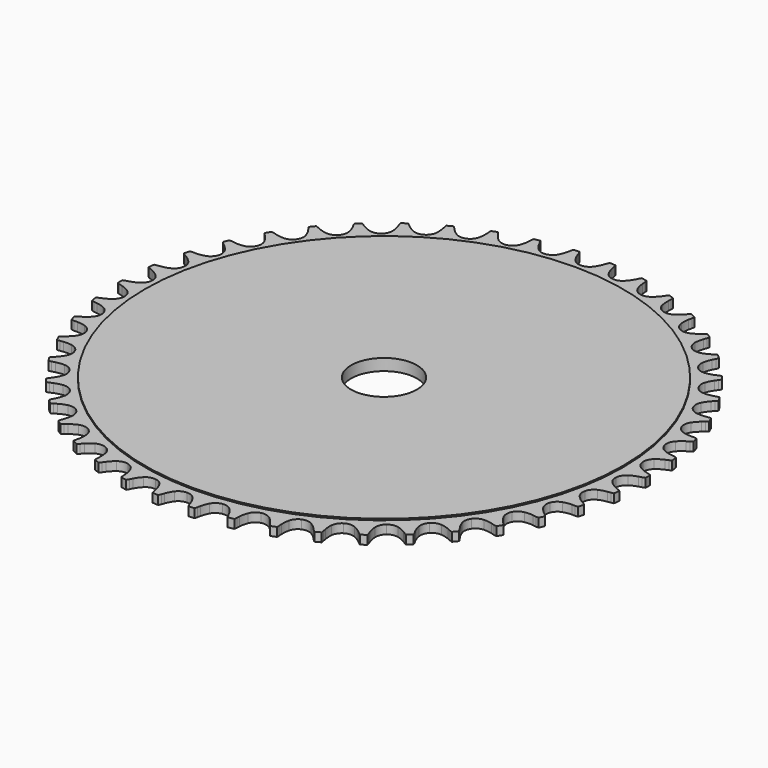
from build123d import *

# Parameters (mm, degrees)
F0_R     = 86.463759
F0_R_2   = 11.90625
F1_DEPTH = 2.1
F2_DEPTH = 1.59


with BuildPart() as f1:
    # F0 (on Top) → F1 (new body, symmetric)
    with BuildSketch(Plane.XY):
        Circle(F0_R)
        Circle(F0_R_2, mode=Mode.SUBTRACT)
    extrude(amount=F1_DEPTH, both=True)

    # F0 (on Top) → F2 (join, symmetric)
    with BuildSketch(Plane.XY):
        with BuildLine():
            ThreePointArc((0, 88.963125), (-1.813348, 89.395926), (-3.235772, 90.601023))
            ThreePointArc((-3.235772, 90.601023), (-4.05085, 91.883416), (-4.670231, 93.27095))
            Line((-4.670231, 93.27095), (-5.057308, 94.362702))
            ThreePointArc((-5.057308, 94.362702), (-5.240091, 94.821385), (-5.457606, 95.264654))
            ThreePointArc((-5.457606, 95.264654), (-6.511749, 95.198408), (-7.565095, 95.120497))
            ThreePointArc((-7.565095, 95.120497), (-7.720226, 94.651739), (-7.838849, 94.17244))
            Line((-7.838849, 94.17244), (-8.073661, 93.038149))
            ThreePointArc((-8.073661, 93.038149), (-8.498337, 91.579199), (-9.131203, 90.197764))
            ThreePointArc((-9.131203, 90.197764), (-10.376285, 88.810205), (-12.113811, 88.134518))
            ThreePointArc((-12.113811, 88.134518), (-13.969202, 88.31637), (-15.542472, 89.316556))
            ThreePointArc((-15.542472, 89.316556), (-16.524577, 90.476018), (-17.327125, 91.766289))
            Line((-17.327125, 91.766289), (-17.859257, 92.795166))
            ThreePointArc((-17.859257, 92.795166), (-18.102795, 93.224688), (-18.378643, 93.63421))
            ThreePointArc((-18.378643, 93.63421), (-19.413947, 93.425041), (-20.446872, 93.204426))
            ThreePointArc((-20.446872, 93.204426), (-20.536729, 92.718911), (-20.588983, 92.227923))
            Line((-20.588983, 92.227923), (-20.667155, 91.072223))
            ThreePointArc((-20.667155, 91.072223), (-20.889216, 89.569036), (-21.328082, 88.114292))
            ThreePointArc((-21.328082, 88.114292), (-22.372628, 86.570118), (-24.001964, 85.664131))
            ThreePointArc((-24.001964, 85.664131), (-25.864837, 85.591647), (-27.559645, 86.36829))
            ThreePointArc((-27.559645, 86.36829), (-28.690482, 87.383223), (-29.661247, 88.552197))
            Line((-29.661247, 88.552197), (-30.328522, 89.499032))
            ThreePointArc((-30.328522, 89.499032), (-30.628278, 89.891392), (-30.957319, 90.259537))
            ThreePointArc((-30.957319, 90.259537), (-31.954499, 89.911343), (-32.947764, 89.552133))
            ThreePointArc((-32.947764, 89.552133), (-32.970673, 89.058904), (-32.955583, 88.565374))
            Line((-32.955583, 88.565374), (-32.87566, 87.409794))
            ThreePointArc((-32.87566, 87.409794), (-32.890968, 85.89037), (-33.127659, 84.389417))
            ThreePointArc((-33.127659, 84.389417), (-33.95221, 82.717393), (-35.443006, 81.597984))
            ThreePointArc((-35.443006, 81.597984), (-37.278658, 81.272513), (-39.063433, 81.811147))
            ThreePointArc((-39.063433, 81.811147), (-40.321938, 82.662644), (-41.442836, 83.688544))
            Line((-41.442836, 83.688544), (-42.232824, 84.5357))
            ThreePointArc((-42.232824, 84.5357), (-42.583214, 84.883588), (-42.95932, 85.203501))
            ThreePointArc((-42.95932, 85.203501), (-43.8998, 84.722767), (-44.8349, 84.231653))
            ThreePointArc((-44.8349, 84.231653), (-44.790435, 83.739899), (-44.708283, 83.25302))
            Line((-44.708283, 83.25302), (-44.471753, 82.119086))
            ThreePointArc((-44.471753, 82.119086), (-44.280023, 80.61173), (-44.310131, 79.092527))
            ThreePointArc((-44.310131, 79.092527), (-44.899328, 77.3238), (-46.223812, 76.011821))
            ThreePointArc((-46.223812, 76.011821), (-47.998048, 75.439427), (-49.839544, 75.730017))
            ThreePointArc((-49.839544, 75.730017), (-51.202273, 76.402217), (-52.452424, 77.265932))
            Line((-52.452424, 77.265932), (-53.350408, 77.997628))
            ThreePointArc((-53.350408, 77.997628), (-53.744905, 78.294564), (-54.16107, 78.560284))
            ThreePointArc((-54.16107, 78.560284), (-55.02733, 77.955966), (-55.886848, 77.342097))
            ThreePointArc((-55.886848, 77.342097), (-55.775835, 76.860977), (-55.628153, 76.38982))
            Line((-55.628153, 76.38982), (-55.239421, 75.298655))
            ThreePointArc((-55.239421, 75.298655), (-54.844226, 73.831445), (-54.667188, 72.322293))
            ThreePointArc((-54.667188, 72.322293), (-55.010056, 70.489811), (-56.143556, 69.009701))
            ThreePointArc((-56.143556, 69.009701), (-57.823326, 68.201047), (-59.687238, 68.238179))
            ThreePointArc((-59.687238, 68.238179), (-61.128806, 68.718561), (-62.484923, 69.404002))
            Line((-62.484923, 69.404002), (-63.474175, 70.006607))
            ThreePointArc((-63.474175, 70.006607), (-63.905431, 70.247061), (-64.353901, 70.453638))
            ThreePointArc((-64.353901, 70.453638), (-65.129805, 69.736993), (-65.897729, 69.011804))
            ThreePointArc((-65.897729, 69.011804), (-65.722238, 68.550282), (-65.511775, 68.103622))
            Line((-65.511775, 68.103622), (-64.978084, 67.075552))
            ThreePointArc((-64.978084, 67.075552), (-64.386785, 65.675821), (-64.005899, 64.204832))
            ThreePointArc((-64.005899, 64.204832), (-64.096051, 62.34273), (-65.017452, 60.722061))
            ThreePointArc((-65.017452, 60.722061), (-66.571464, 59.69221), (-68.423072, 59.475194))
            ThreePointArc((-68.423072, 59.475194), (-69.916625, 59.754808), (-71.353445, 60.249207))
            Line((-71.353445, 60.249207), (-72.415538, 60.711496))
            ThreePointArc((-72.415538, 60.711496), (-72.875519, 60.890988), (-73.347941, 61.034574))
            ThreePointArc((-73.347941, 61.034574), (-74.019035, 60.218952), (-74.68106, 59.395951))
            ThreePointArc((-74.68106, 59.395951), (-74.44436, 58.962624), (-74.175037, 58.548782))
            Line((-74.175037, 58.548782), (-73.506328, 57.602959))
            ThreePointArc((-73.506328, 57.602959), (-72.729939, 56.29678), (-72.152302, 54.891356))
            ThreePointArc((-72.152302, 54.891356), (-71.988057, 53.034322), (-72.680195, 51.303284))
            ThreePointArc((-72.680195, 51.303284), (-74.079502, 50.07142), (-75.884314, 49.604298))
            ThreePointArc((-75.884314, 49.604298), (-77.40203, 49.677936), (-78.892788, 49.972083))
            Line((-78.892788, 49.972083), (-80.007937, 50.285445))
            ThreePointArc((-80.007937, 50.285445), (-80.488074, 50.400631), (-80.975648, 50.478551))
            ThreePointArc((-80.975648, 50.478551), (-81.529431, 49.579145), (-82.073224, 48.673664))
            ThreePointArc((-82.073224, 48.673664), (-81.779724, 48.276603), (-81.456558, 47.903289))
            Line((-81.456558, 47.903289), (-80.665288, 47.057332))
            ThreePointArc((-80.665288, 47.057332), (-79.718272, 45.869037), (-78.954643, 44.555357))
            ThreePointArc((-78.954643, 44.555357), (-78.539063, 42.737985), (-78.989044, 40.928824))
            ThreePointArc((-78.989044, 40.928824), (-80.207579, 39.517895), (-81.931975, 38.809369))
            ThreePointArc((-81.931975, 38.809369), (-83.445581, 38.675658), (-84.962507, 38.764074))
            Line((-84.962507, 38.764074), (-86.109939, 38.922671))
            ThreePointArc((-86.109939, 38.922671), (-86.601289, 38.971405), (-87.094932, 38.982208))
            ThreePointArc((-87.094932, 38.982208), (-87.521087, 38.015773), (-87.936519, 37.044679))
            ThreePointArc((-87.936519, 37.044679), (-87.591686, 36.691282), (-87.220697, 36.365449))
            Line((-87.220697, 36.365449), (-86.321606, 35.635115))
            ThreePointArc((-86.321606, 35.635115), (-85.221605, 34.58684), (-84.286209, 33.389377))
            ThreePointArc((-84.286209, 33.389377), (-83.627034, 31.64552), (-83.826477, 29.791937))
            ThreePointArc((-83.826477, 29.791937), (-84.841541, 28.228226), (-86.453397, 27.291494))
            ThreePointArc((-86.453397, 27.291494), (-87.934699, 26.952925), (-89.449536, 26.833964))
            Line((-89.449536, 26.833964), (-90.607876, 26.834841))
            ThreePointArc((-90.607876, 26.834841), (-91.101286, 26.816216), (-91.591801, 26.759701))
            ThreePointArc((-91.591801, 26.759701), (-91.882391, 25.744239), (-92.161724, 24.725622))
            ThreePointArc((-92.161724, 24.725622), (-91.771982, 24.422471), (-91.36008, 24.150189))
            Line((-91.36008, 24.150189), (-90.369916, 23.549084))
            ThreePointArc((-90.369916, 23.549084), (-89.137421, 22.660356), (-88.047682, 21.601416))
            ThreePointArc((-88.047682, 21.601416), (-87.157192, 19.963559), (-87.10238, 18.100083))
            ThreePointArc((-87.10238, 18.100083), (-87.895065, 16.412718), (-89.364357, 15.26523))
            ThreePointArc((-89.364357, 15.26523), (-90.78576, 14.728111), (-92.270289, 14.403987))
            Line((-92.270289, 14.403987), (-93.41796, 14.247129))
            ThreePointArc((-93.41796, 14.247129), (-93.904238, 14.161491), (-94.382489, 14.038711))
            ThreePointArc((-94.382489, 14.038711), (-94.532101, 12.993138), (-94.670129, 11.945973))
            ThreePointArc((-94.670129, 11.945973), (-94.242738, 11.698715), (-93.797598, 11.485057))
            Line((-93.797598, 11.485057), (-92.734806, 11.024378))
            ThreePointArc((-92.734806, 11.024378), (-91.392775, 10.311752), (-90.168994, 9.411061))
            ThreePointArc((-90.168994, 9.411061), (-89.063776, 7.909715), (-88.755732, 6.071058))
            ThreePointArc((-88.755732, 6.071058), (-89.31127, 4.291473), (-90.610628, 2.954603))
            ThreePointArc((-90.610628, 2.954603), (-91.945654, 2.22894), (-93.372221, 1.705691))
            Line((-93.372221, 1.705691), (-94.487844, 1.39402))
            ThreePointArc((-94.487844, 1.39402), (-94.957931, 1.242965), (-95.41501, 1.056207))
            ThreePointArc((-95.41501, 1.056207), (-95.420856, 0), (-95.41501, -1.056207))
            ThreePointArc((-95.41501, -1.056207), (-94.957931, -1.242965), (-94.487844, -1.39402))
            Line((-94.487844, -1.39402), (-93.372221, -1.705691))
            ThreePointArc((-93.372221, -1.705691), (-91.945654, -2.22894), (-90.610628, -2.954603))
            ThreePointArc((-90.610628, -2.954603), (-89.31127, -4.291473), (-88.755732, -6.071058))
            ThreePointArc((-88.755732, -6.071058), (-89.063776, -7.909715), (-90.168994, -9.411061))
            ThreePointArc((-90.168994, -9.411061), (-91.392775, -10.311752), (-92.734806, -11.024378))
            Line((-92.734806, -11.024378), (-93.797598, -11.485057))
            ThreePointArc((-93.797598, -11.485057), (-94.242738, -11.698715), (-94.670129, -11.945973))
            ThreePointArc((-94.670129, -11.945973), (-94.532101, -12.993138), (-94.382489, -14.038711))
            ThreePointArc((-94.382489, -14.038711), (-93.904238, -14.161491), (-93.41796, -14.247129))
            Line((-93.41796, -14.247129), (-92.270289, -14.403987))
            ThreePointArc((-92.270289, -14.403987), (-90.78576, -14.728111), (-89.364357, -15.26523))
            ThreePointArc((-89.364357, -15.26523), (-87.895065, -16.412718), (-87.10238, -18.100083))
            ThreePointArc((-87.10238, -18.100083), (-87.157192, -19.963559), (-88.047682, -21.601416))
            ThreePointArc((-88.047682, -21.601416), (-89.137421, -22.660356), (-90.369916, -23.549084))
            Line((-90.369916, -23.549084), (-91.36008, -24.150189))
            ThreePointArc((-91.36008, -24.150189), (-91.771982, -24.422471), (-92.161724, -24.725622))
            ThreePointArc((-92.161724, -24.725622), (-91.882391, -25.744239), (-91.591801, -26.759701))
            ThreePointArc((-91.591801, -26.759701), (-91.101286, -26.816216), (-90.607876, -26.834841))
            Line((-90.607876, -26.834841), (-89.449536, -26.833964))
            ThreePointArc((-89.449536, -26.833964), (-87.934699, -26.952925), (-86.453397, -27.291494))
            ThreePointArc((-86.453397, -27.291494), (-84.841541, -28.228226), (-83.826477, -29.791937))
            ThreePointArc((-83.826477, -29.791937), (-83.627034, -31.64552), (-84.286209, -33.389377))
            ThreePointArc((-84.286209, -33.389377), (-85.221605, -34.58684), (-86.321606, -35.635115))
            Line((-86.321606, -35.635115), (-87.220697, -36.365449))
            ThreePointArc((-87.220697, -36.365449), (-87.591686, -36.691282), (-87.936519, -37.044679))
            ThreePointArc((-87.936519, -37.044679), (-87.521087, -38.015773), (-87.094932, -38.982208))
            ThreePointArc((-87.094932, -38.982208), (-86.601289, -38.971405), (-86.109939, -38.922671))
            Line((-86.109939, -38.922671), (-84.962507, -38.764074))
            ThreePointArc((-84.962507, -38.764074), (-83.445581, -38.675658), (-81.931975, -38.809369))
            ThreePointArc((-81.931975, -38.809369), (-80.207579, -39.517895), (-78.989044, -40.928824))
            ThreePointArc((-78.989044, -40.928824), (-78.539063, -42.737985), (-78.954643, -44.555357))
            ThreePointArc((-78.954643, -44.555357), (-79.718272, -45.869037), (-80.665288, -47.057332))
            Line((-80.665288, -47.057332), (-81.456558, -47.903289))
            ThreePointArc((-81.456558, -47.903289), (-81.779724, -48.276603), (-82.073224, -48.673664))
            ThreePointArc((-82.073224, -48.673664), (-81.529431, -49.579145), (-80.975648, -50.478551))
            ThreePointArc((-80.975648, -50.478551), (-80.488074, -50.400631), (-80.007937, -50.285445))
            Line((-80.007937, -50.285445), (-78.892788, -49.972083))
            ThreePointArc((-78.892788, -49.972083), (-77.40203, -49.677936), (-75.884314, -49.604298))
            ThreePointArc((-75.884314, -49.604298), (-74.079502, -50.07142), (-72.680195, -51.303284))
            ThreePointArc((-72.680195, -51.303284), (-71.988057, -53.034322), (-72.152302, -54.891356))
            ThreePointArc((-72.152302, -54.891356), (-72.729939, -56.29678), (-73.506328, -57.602959))
            Line((-73.506328, -57.602959), (-74.175037, -58.548782))
            ThreePointArc((-74.175037, -58.548782), (-74.44436, -58.962624), (-74.68106, -59.395951))
            ThreePointArc((-74.68106, -59.395951), (-74.019035, -60.218952), (-73.347941, -61.034574))
            ThreePointArc((-73.347941, -61.034574), (-72.875519, -60.890988), (-72.415538, -60.711496))
            Line((-72.415538, -60.711496), (-71.353445, -60.249207))
            ThreePointArc((-71.353445, -60.249207), (-69.916625, -59.754808), (-68.423072, -59.475194))
            ThreePointArc((-68.423072, -59.475194), (-66.571464, -59.69221), (-65.017452, -60.722061))
            ThreePointArc((-65.017452, -60.722061), (-64.096051, -62.34273), (-64.005899, -64.204832))
            ThreePointArc((-64.005899, -64.204832), (-64.386785, -65.675821), (-64.978084, -67.075552))
            Line((-64.978084, -67.075552), (-65.511775, -68.103622))
            ThreePointArc((-65.511775, -68.103622), (-65.722238, -68.550282), (-65.897729, -69.011804))
            ThreePointArc((-65.897729, -69.011804), (-65.129805, -69.736993), (-64.353901, -70.453638))
            ThreePointArc((-64.353901, -70.453638), (-63.905431, -70.247061), (-63.474175, -70.006607))
            Line((-63.474175, -70.006607), (-62.484923, -69.404002))
            ThreePointArc((-62.484923, -69.404002), (-61.128806, -68.718561), (-59.687238, -68.238179))
            ThreePointArc((-59.687238, -68.238179), (-57.823326, -68.201047), (-56.143556, -69.009701))
            ThreePointArc((-56.143556, -69.009701), (-55.010056, -70.489811), (-54.667188, -72.322293))
            ThreePointArc((-54.667188, -72.322293), (-54.844226, -73.831445), (-55.239421, -75.298655))
            Line((-55.239421, -75.298655), (-55.628153, -76.38982))
            ThreePointArc((-55.628153, -76.38982), (-55.775835, -76.860977), (-55.886848, -77.342097))
            ThreePointArc((-55.886848, -77.342097), (-55.02733, -77.955966), (-54.16107, -78.560284))
            ThreePointArc((-54.16107, -78.560284), (-53.744905, -78.294564), (-53.350408, -77.997628))
            Line((-53.350408, -77.997628), (-52.452424, -77.265932))
            ThreePointArc((-52.452424, -77.265932), (-51.202273, -76.402217), (-49.839544, -75.730017))
            ThreePointArc((-49.839544, -75.730017), (-47.998048, -75.439427), (-46.223812, -76.011821))
            ThreePointArc((-46.223812, -76.011821), (-44.899328, -77.3238), (-44.310131, -79.092527))
            ThreePointArc((-44.310131, -79.092527), (-44.280023, -80.61173), (-44.471753, -82.119086))
            Line((-44.471753, -82.119086), (-44.708283, -83.25302))
            ThreePointArc((-44.708283, -83.25302), (-44.790435, -83.739899), (-44.8349, -84.231653))
            ThreePointArc((-44.8349, -84.231653), (-43.8998, -84.722767), (-42.95932, -85.203501))
            ThreePointArc((-42.95932, -85.203501), (-42.583214, -84.883588), (-42.232824, -84.5357))
            Line((-42.232824, -84.5357), (-41.442836, -83.688544))
            ThreePointArc((-41.442836, -83.688544), (-40.321938, -82.662644), (-39.063433, -81.811147))
            ThreePointArc((-39.063433, -81.811147), (-37.278658, -81.272513), (-35.443006, -81.597984))
            ThreePointArc((-35.443006, -81.597984), (-33.95221, -82.717393), (-33.127659, -84.389417))
            ThreePointArc((-33.127659, -84.389417), (-32.890968, -85.89037), (-32.87566, -87.409794))
            Line((-32.87566, -87.409794), (-32.955583, -88.565374))
            ThreePointArc((-32.955583, -88.565374), (-32.970673, -89.058904), (-32.947764, -89.552133))
            ThreePointArc((-32.947764, -89.552133), (-31.954499, -89.911343), (-30.957319, -90.259537))
            ThreePointArc((-30.957319, -90.259537), (-30.628278, -89.891392), (-30.328522, -89.499032))
            Line((-30.328522, -89.499032), (-29.661247, -88.552197))
            ThreePointArc((-29.661247, -88.552197), (-28.690482, -87.383223), (-27.559645, -86.36829))
            ThreePointArc((-27.559645, -86.36829), (-25.864837, -85.591647), (-24.001964, -85.664131))
            ThreePointArc((-24.001964, -85.664131), (-22.372628, -86.570118), (-21.328082, -88.114292))
            ThreePointArc((-21.328082, -88.114292), (-20.889216, -89.569036), (-20.667155, -91.072223))
            Line((-20.667155, -91.072223), (-20.588983, -92.227923))
            ThreePointArc((-20.588983, -92.227923), (-20.536729, -92.718911), (-20.446872, -93.204426))
            ThreePointArc((-20.446872, -93.204426), (-19.413947, -93.425041), (-18.378643, -93.63421))
            ThreePointArc((-18.378643, -93.63421), (-18.102795, -93.224688), (-17.859257, -92.795166))
            Line((-17.859257, -92.795166), (-17.327125, -91.766289))
            ThreePointArc((-17.327125, -91.766289), (-16.524577, -90.476018), (-15.542472, -89.316556))
            ThreePointArc((-15.542472, -89.316556), (-13.969202, -88.31637), (-12.113811, -88.134518))
            ThreePointArc((-12.113811, -88.134518), (-10.376285, -88.810205), (-9.131203, -90.197764))
            ThreePointArc((-9.131203, -90.197764), (-8.498337, -91.579199), (-8.073661, -93.038149))
            Line((-8.073661, -93.038149), (-7.838849, -94.17244))
            ThreePointArc((-7.838849, -94.17244), (-7.720226, -94.651739), (-7.565095, -95.120497))
            ThreePointArc((-7.565095, -95.120497), (-6.511749, -95.198408), (-5.457606, -95.264654))
            ThreePointArc((-5.457606, -95.264654), (-5.240091, -94.821385), (-5.057308, -94.362702))
            Line((-5.057308, -94.362702), (-4.670231, -93.27095))
            ThreePointArc((-4.670231, -93.27095), (-4.05085, -91.883416), (-3.235772, -90.601023))
            ThreePointArc((-3.235772, -90.601023), (-1.813348, -89.395926), (0, -88.963125))
            ThreePointArc((0, -88.963125), (1.813348, -89.395926), (3.235772, -90.601023))
            ThreePointArc((3.235772, -90.601023), (4.05085, -91.883416), (4.670231, -93.27095))
            Line((4.670231, -93.27095), (5.057308, -94.362702))
            ThreePointArc((5.057308, -94.362702), (5.240091, -94.821385), (5.457606, -95.264654))
            ThreePointArc((5.457606, -95.264654), (6.511749, -95.198408), (7.565095, -95.120497))
            ThreePointArc((7.565095, -95.120497), (7.720226, -94.651739), (7.838849, -94.17244))
            Line((7.838849, -94.17244), (8.073661, -93.038149))
            ThreePointArc((8.073661, -93.038149), (8.498337, -91.579199), (9.131203, -90.197764))
            ThreePointArc((9.131203, -90.197764), (10.376285, -88.810205), (12.113811, -88.134518))
            ThreePointArc((12.113811, -88.134518), (13.969202, -88.31637), (15.542472, -89.316556))
            ThreePointArc((15.542472, -89.316556), (16.524577, -90.476018), (17.327125, -91.766289))
            Line((17.327125, -91.766289), (17.859257, -92.795166))
            ThreePointArc((17.859257, -92.795166), (18.102795, -93.224688), (18.378643, -93.63421))
            ThreePointArc((18.378643, -93.63421), (19.413947, -93.425041), (20.446872, -93.204426))
            ThreePointArc((20.446872, -93.204426), (20.536729, -92.718911), (20.588983, -92.227923))
            Line((20.588983, -92.227923), (20.667155, -91.072223))
            ThreePointArc((20.667155, -91.072223), (20.889216, -89.569036), (21.328082, -88.114292))
            ThreePointArc((21.328082, -88.114292), (22.372628, -86.570118), (24.001964, -85.664131))
            ThreePointArc((24.001964, -85.664131), (25.864837, -85.591647), (27.559645, -86.36829))
            ThreePointArc((27.559645, -86.36829), (28.690482, -87.383223), (29.661247, -88.552197))
            Line((29.661247, -88.552197), (30.328522, -89.499032))
            ThreePointArc((30.328522, -89.499032), (30.628278, -89.891392), (30.957319, -90.259537))
            ThreePointArc((30.957319, -90.259537), (31.954499, -89.911343), (32.947764, -89.552133))
            ThreePointArc((32.947764, -89.552133), (32.970673, -89.058904), (32.955583, -88.565374))
            Line((32.955583, -88.565374), (32.87566, -87.409794))
            ThreePointArc((32.87566, -87.409794), (32.890968, -85.89037), (33.127659, -84.389417))
            ThreePointArc((33.127659, -84.389417), (33.95221, -82.717393), (35.443006, -81.597984))
            ThreePointArc((35.443006, -81.597984), (37.278658, -81.272513), (39.063433, -81.811147))
            ThreePointArc((39.063433, -81.811147), (40.321938, -82.662644), (41.442836, -83.688544))
            Line((41.442836, -83.688544), (42.232824, -84.5357))
            ThreePointArc((42.232824, -84.5357), (42.583214, -84.883588), (42.95932, -85.203501))
            ThreePointArc((42.95932, -85.203501), (43.8998, -84.722767), (44.8349, -84.231653))
            ThreePointArc((44.8349, -84.231653), (44.790435, -83.739899), (44.708283, -83.25302))
            Line((44.708283, -83.25302), (44.471753, -82.119086))
            ThreePointArc((44.471753, -82.119086), (44.280023, -80.61173), (44.310131, -79.092527))
            ThreePointArc((44.310131, -79.092527), (44.899328, -77.3238), (46.223812, -76.011821))
            ThreePointArc((46.223812, -76.011821), (47.998048, -75.439427), (49.839544, -75.730017))
            ThreePointArc((49.839544, -75.730017), (51.202273, -76.402217), (52.452424, -77.265932))
            Line((52.452424, -77.265932), (53.350408, -77.997628))
            ThreePointArc((53.350408, -77.997628), (53.744905, -78.294564), (54.16107, -78.560284))
            ThreePointArc((54.16107, -78.560284), (55.02733, -77.955966), (55.886848, -77.342097))
            ThreePointArc((55.886848, -77.342097), (55.775835, -76.860977), (55.628153, -76.38982))
            Line((55.628153, -76.38982), (55.239421, -75.298655))
            ThreePointArc((55.239421, -75.298655), (54.844226, -73.831445), (54.667188, -72.322293))
            ThreePointArc((54.667188, -72.322293), (55.010056, -70.489811), (56.143556, -69.009701))
            ThreePointArc((56.143556, -69.009701), (57.823326, -68.201047), (59.687238, -68.238179))
            ThreePointArc((59.687238, -68.238179), (61.128806, -68.718561), (62.484923, -69.404002))
            Line((62.484923, -69.404002), (63.474175, -70.006607))
            ThreePointArc((63.474175, -70.006607), (63.905431, -70.247061), (64.353901, -70.453638))
            ThreePointArc((64.353901, -70.453638), (65.129805, -69.736993), (65.897729, -69.011804))
            ThreePointArc((65.897729, -69.011804), (65.722238, -68.550282), (65.511775, -68.103622))
            Line((65.511775, -68.103622), (64.978084, -67.075552))
            ThreePointArc((64.978084, -67.075552), (64.386785, -65.675821), (64.005899, -64.204832))
            ThreePointArc((64.005899, -64.204832), (64.096051, -62.34273), (65.017452, -60.722061))
            ThreePointArc((65.017452, -60.722061), (66.571464, -59.69221), (68.423072, -59.475194))
            ThreePointArc((68.423072, -59.475194), (69.916625, -59.754808), (71.353445, -60.249207))
            Line((71.353445, -60.249207), (72.415538, -60.711496))
            ThreePointArc((72.415538, -60.711496), (72.875519, -60.890988), (73.347941, -61.034574))
            ThreePointArc((73.347941, -61.034574), (74.019035, -60.218952), (74.68106, -59.395951))
            ThreePointArc((74.68106, -59.395951), (74.44436, -58.962624), (74.175037, -58.548782))
            Line((74.175037, -58.548782), (73.506328, -57.602959))
            ThreePointArc((73.506328, -57.602959), (72.729939, -56.29678), (72.152302, -54.891356))
            ThreePointArc((72.152302, -54.891356), (71.988057, -53.034322), (72.680195, -51.303284))
            ThreePointArc((72.680195, -51.303284), (74.079502, -50.07142), (75.884314, -49.604298))
            ThreePointArc((75.884314, -49.604298), (77.40203, -49.677936), (78.892788, -49.972083))
            Line((78.892788, -49.972083), (80.007937, -50.285445))
            ThreePointArc((80.007937, -50.285445), (80.488074, -50.400631), (80.975648, -50.478551))
            ThreePointArc((80.975648, -50.478551), (81.529431, -49.579145), (82.073224, -48.673664))
            ThreePointArc((82.073224, -48.673664), (81.779724, -48.276603), (81.456558, -47.903289))
            Line((81.456558, -47.903289), (80.665288, -47.057332))
            ThreePointArc((80.665288, -47.057332), (79.718272, -45.869037), (78.954643, -44.555357))
            ThreePointArc((78.954643, -44.555357), (78.539063, -42.737985), (78.989044, -40.928824))
            ThreePointArc((78.989044, -40.928824), (80.207579, -39.517895), (81.931975, -38.809369))
            ThreePointArc((81.931975, -38.809369), (83.445581, -38.675658), (84.962507, -38.764074))
            Line((84.962507, -38.764074), (86.109939, -38.922671))
            ThreePointArc((86.109939, -38.922671), (86.601289, -38.971405), (87.094932, -38.982208))
            ThreePointArc((87.094932, -38.982208), (87.521087, -38.015773), (87.936519, -37.044679))
            ThreePointArc((87.936519, -37.044679), (87.591686, -36.691282), (87.220697, -36.365449))
            Line((87.220697, -36.365449), (86.321606, -35.635115))
            ThreePointArc((86.321606, -35.635115), (85.221605, -34.58684), (84.286209, -33.389377))
            ThreePointArc((84.286209, -33.389377), (83.627034, -31.64552), (83.826477, -29.791937))
            ThreePointArc((83.826477, -29.791937), (84.841541, -28.228226), (86.453397, -27.291494))
            ThreePointArc((86.453397, -27.291494), (87.934699, -26.952925), (89.449536, -26.833964))
            Line((89.449536, -26.833964), (90.607876, -26.834841))
            ThreePointArc((90.607876, -26.834841), (91.101286, -26.816216), (91.591801, -26.759701))
            ThreePointArc((91.591801, -26.759701), (91.882391, -25.744239), (92.161724, -24.725622))
            ThreePointArc((92.161724, -24.725622), (91.771982, -24.422471), (91.36008, -24.150189))
            Line((91.36008, -24.150189), (90.369916, -23.549084))
            ThreePointArc((90.369916, -23.549084), (89.137421, -22.660356), (88.047682, -21.601416))
            ThreePointArc((88.047682, -21.601416), (87.157192, -19.963559), (87.10238, -18.100083))
            ThreePointArc((87.10238, -18.100083), (87.895065, -16.412718), (89.364357, -15.26523))
            ThreePointArc((89.364357, -15.26523), (90.78576, -14.728111), (92.270289, -14.403987))
            Line((92.270289, -14.403987), (93.41796, -14.247129))
            ThreePointArc((93.41796, -14.247129), (93.904238, -14.161491), (94.382489, -14.038711))
            ThreePointArc((94.382489, -14.038711), (94.532101, -12.993138), (94.670129, -11.945973))
            ThreePointArc((94.670129, -11.945973), (94.242738, -11.698715), (93.797598, -11.485057))
            Line((93.797598, -11.485057), (92.734806, -11.024378))
            ThreePointArc((92.734806, -11.024378), (91.392775, -10.311752), (90.168994, -9.411061))
            ThreePointArc((90.168994, -9.411061), (89.063776, -7.909715), (88.755732, -6.071058))
            ThreePointArc((88.755732, -6.071058), (89.31127, -4.291473), (90.610628, -2.954603))
            ThreePointArc((90.610628, -2.954603), (91.945654, -2.22894), (93.372221, -1.705691))
            Line((93.372221, -1.705691), (94.487844, -1.39402))
            ThreePointArc((94.487844, -1.39402), (94.957931, -1.242965), (95.41501, -1.056207))
            ThreePointArc((95.41501, -1.056207), (95.419394, -0.528111), (95.420856, 0))
            ThreePointArc((95.420856, 0), (95.419394, 0.528111), (95.41501, 1.056207))
            ThreePointArc((95.41501, 1.056207), (94.957931, 1.242965), (94.487844, 1.39402))
            Line((94.487844, 1.39402), (93.372221, 1.705691))
            ThreePointArc((93.372221, 1.705691), (91.945654, 2.22894), (90.610628, 2.954603))
            ThreePointArc((90.610628, 2.954603), (89.31127, 4.291473), (88.755732, 6.071058))
            ThreePointArc((88.755732, 6.071058), (89.063776, 7.909715), (90.168994, 9.411061))
            ThreePointArc((90.168994, 9.411061), (91.392775, 10.311752), (92.734806, 11.024378))
            Line((92.734806, 11.024378), (93.797598, 11.485057))
            ThreePointArc((93.797598, 11.485057), (94.242738, 11.698715), (94.670129, 11.945973))
            ThreePointArc((94.670129, 11.945973), (94.532101, 12.993138), (94.382489, 14.038711))
            ThreePointArc((94.382489, 14.038711), (93.904238, 14.161491), (93.41796, 14.247129))
            Line((93.41796, 14.247129), (92.270289, 14.403987))
            ThreePointArc((92.270289, 14.403987), (90.78576, 14.728111), (89.364357, 15.26523))
            ThreePointArc((89.364357, 15.26523), (87.895065, 16.412718), (87.10238, 18.100083))
            ThreePointArc((87.10238, 18.100083), (87.157192, 19.963559), (88.047682, 21.601416))
            ThreePointArc((88.047682, 21.601416), (89.137421, 22.660356), (90.369916, 23.549084))
            Line((90.369916, 23.549084), (91.36008, 24.150189))
            ThreePointArc((91.36008, 24.150189), (91.771982, 24.422471), (92.161724, 24.725622))
            ThreePointArc((92.161724, 24.725622), (91.882391, 25.744239), (91.591801, 26.759701))
            ThreePointArc((91.591801, 26.759701), (91.101286, 26.816216), (90.607876, 26.834841))
            Line((90.607876, 26.834841), (89.449536, 26.833964))
            ThreePointArc((89.449536, 26.833964), (87.934699, 26.952925), (86.453397, 27.291494))
            ThreePointArc((86.453397, 27.291494), (84.841541, 28.228226), (83.826477, 29.791937))
            ThreePointArc((83.826477, 29.791937), (83.627034, 31.64552), (84.286209, 33.389377))
            ThreePointArc((84.286209, 33.389377), (85.221605, 34.58684), (86.321606, 35.635115))
            Line((86.321606, 35.635115), (87.220697, 36.365449))
            ThreePointArc((87.220697, 36.365449), (87.591686, 36.691282), (87.936519, 37.044679))
            ThreePointArc((87.936519, 37.044679), (87.521087, 38.015773), (87.094932, 38.982208))
            ThreePointArc((87.094932, 38.982208), (86.601289, 38.971405), (86.109939, 38.922671))
            Line((86.109939, 38.922671), (84.962507, 38.764074))
            ThreePointArc((84.962507, 38.764074), (83.445581, 38.675658), (81.931975, 38.809369))
            ThreePointArc((81.931975, 38.809369), (80.207579, 39.517895), (78.989044, 40.928824))
            ThreePointArc((78.989044, 40.928824), (78.539063, 42.737985), (78.954643, 44.555357))
            ThreePointArc((78.954643, 44.555357), (79.718272, 45.869037), (80.665288, 47.057332))
            Line((80.665288, 47.057332), (81.456558, 47.903289))
            ThreePointArc((81.456558, 47.903289), (81.779724, 48.276603), (82.073224, 48.673664))
            ThreePointArc((82.073224, 48.673664), (81.529431, 49.579145), (80.975648, 50.478551))
            ThreePointArc((80.975648, 50.478551), (80.488074, 50.400631), (80.007937, 50.285445))
            Line((80.007937, 50.285445), (78.892788, 49.972083))
            ThreePointArc((78.892788, 49.972083), (77.40203, 49.677936), (75.884314, 49.604298))
            ThreePointArc((75.884314, 49.604298), (74.079502, 50.07142), (72.680195, 51.303284))
            ThreePointArc((72.680195, 51.303284), (71.988057, 53.034322), (72.152302, 54.891356))
            ThreePointArc((72.152302, 54.891356), (72.729939, 56.29678), (73.506328, 57.602959))
            Line((73.506328, 57.602959), (74.175037, 58.548782))
            ThreePointArc((74.175037, 58.548782), (74.44436, 58.962624), (74.68106, 59.395951))
            ThreePointArc((74.68106, 59.395951), (74.019035, 60.218952), (73.347941, 61.034574))
            ThreePointArc((73.347941, 61.034574), (72.875519, 60.890988), (72.415538, 60.711496))
            Line((72.415538, 60.711496), (71.353445, 60.249207))
            ThreePointArc((71.353445, 60.249207), (69.916625, 59.754808), (68.423072, 59.475194))
            ThreePointArc((68.423072, 59.475194), (66.571464, 59.69221), (65.017452, 60.722061))
            ThreePointArc((65.017452, 60.722061), (64.096051, 62.34273), (64.005899, 64.204832))
            ThreePointArc((64.005899, 64.204832), (64.386785, 65.675821), (64.978084, 67.075552))
            Line((64.978084, 67.075552), (65.511775, 68.103622))
            ThreePointArc((65.511775, 68.103622), (65.722238, 68.550282), (65.897729, 69.011804))
            ThreePointArc((65.897729, 69.011804), (65.129805, 69.736993), (64.353901, 70.453638))
            ThreePointArc((64.353901, 70.453638), (63.905431, 70.247061), (63.474175, 70.006607))
            Line((63.474175, 70.006607), (62.484923, 69.404002))
            ThreePointArc((62.484923, 69.404002), (61.128806, 68.718561), (59.687238, 68.238179))
            ThreePointArc((59.687238, 68.238179), (57.823326, 68.201047), (56.143556, 69.009701))
            ThreePointArc((56.143556, 69.009701), (55.010056, 70.489811), (54.667188, 72.322293))
            ThreePointArc((54.667188, 72.322293), (54.844226, 73.831445), (55.239421, 75.298655))
            Line((55.239421, 75.298655), (55.628153, 76.38982))
            ThreePointArc((55.628153, 76.38982), (55.775835, 76.860977), (55.886848, 77.342097))
            ThreePointArc((55.886848, 77.342097), (55.02733, 77.955966), (54.16107, 78.560284))
            ThreePointArc((54.16107, 78.560284), (53.744905, 78.294564), (53.350408, 77.997628))
            Line((53.350408, 77.997628), (52.452424, 77.265932))
            ThreePointArc((52.452424, 77.265932), (51.202273, 76.402217), (49.839544, 75.730017))
            ThreePointArc((49.839544, 75.730017), (47.998048, 75.439427), (46.223812, 76.011821))
            ThreePointArc((46.223812, 76.011821), (44.899328, 77.3238), (44.310131, 79.092527))
            ThreePointArc((44.310131, 79.092527), (44.280023, 80.61173), (44.471753, 82.119086))
            Line((44.471753, 82.119086), (44.708283, 83.25302))
            ThreePointArc((44.708283, 83.25302), (44.790435, 83.739899), (44.8349, 84.231653))
            ThreePointArc((44.8349, 84.231653), (43.8998, 84.722767), (42.95932, 85.203501))
            ThreePointArc((42.95932, 85.203501), (42.583214, 84.883588), (42.232824, 84.5357))
            Line((42.232824, 84.5357), (41.442836, 83.688544))
            ThreePointArc((41.442836, 83.688544), (40.321938, 82.662644), (39.063433, 81.811147))
            ThreePointArc((39.063433, 81.811147), (37.278658, 81.272513), (35.443006, 81.597984))
            ThreePointArc((35.443006, 81.597984), (33.95221, 82.717393), (33.127659, 84.389417))
            ThreePointArc((33.127659, 84.389417), (32.890968, 85.89037), (32.87566, 87.409794))
            Line((32.87566, 87.409794), (32.955583, 88.565374))
            ThreePointArc((32.955583, 88.565374), (32.970673, 89.058904), (32.947764, 89.552133))
            ThreePointArc((32.947764, 89.552133), (31.954499, 89.911343), (30.957319, 90.259537))
            ThreePointArc((30.957319, 90.259537), (30.628278, 89.891392), (30.328522, 89.499032))
            Line((30.328522, 89.499032), (29.661247, 88.552197))
            ThreePointArc((29.661247, 88.552197), (28.690482, 87.383223), (27.559645, 86.36829))
            ThreePointArc((27.559645, 86.36829), (25.864837, 85.591647), (24.001964, 85.664131))
            ThreePointArc((24.001964, 85.664131), (22.372628, 86.570118), (21.328082, 88.114292))
            ThreePointArc((21.328082, 88.114292), (20.889216, 89.569036), (20.667155, 91.072223))
            Line((20.667155, 91.072223), (20.588983, 92.227923))
            ThreePointArc((20.588983, 92.227923), (20.536729, 92.718911), (20.446872, 93.204426))
            ThreePointArc((20.446872, 93.204426), (19.413947, 93.425041), (18.378643, 93.63421))
            ThreePointArc((18.378643, 93.63421), (18.102795, 93.224688), (17.859257, 92.795166))
            Line((17.859257, 92.795166), (17.327125, 91.766289))
            ThreePointArc((17.327125, 91.766289), (16.524577, 90.476018), (15.542472, 89.316556))
            ThreePointArc((15.542472, 89.316556), (13.969202, 88.31637), (12.113811, 88.134518))
            ThreePointArc((12.113811, 88.134518), (10.376285, 88.810205), (9.131203, 90.197764))
            ThreePointArc((9.131203, 90.197764), (8.498337, 91.579199), (8.073661, 93.038149))
            Line((8.073661, 93.038149), (7.838849, 94.17244))
            ThreePointArc((7.838849, 94.17244), (7.720226, 94.651739), (7.565095, 95.120497))
            ThreePointArc((7.565095, 95.120497), (6.511749, 95.198408), (5.457606, 95.264654))
            ThreePointArc((5.457606, 95.264654), (5.240091, 94.821385), (5.057308, 94.362702))
            Line((5.057308, 94.362702), (4.670231, 93.27095))
            ThreePointArc((4.670231, 93.27095), (4.05085, 91.883416), (3.235772, 90.601023))
            ThreePointArc((3.235772, 90.601023), (1.813348, 89.395926), (0, 88.963125))
        make_face()
        Circle(F0_R, mode=Mode.SUBTRACT)
    extrude(amount=F2_DEPTH, both=True)


solid = f1.part
